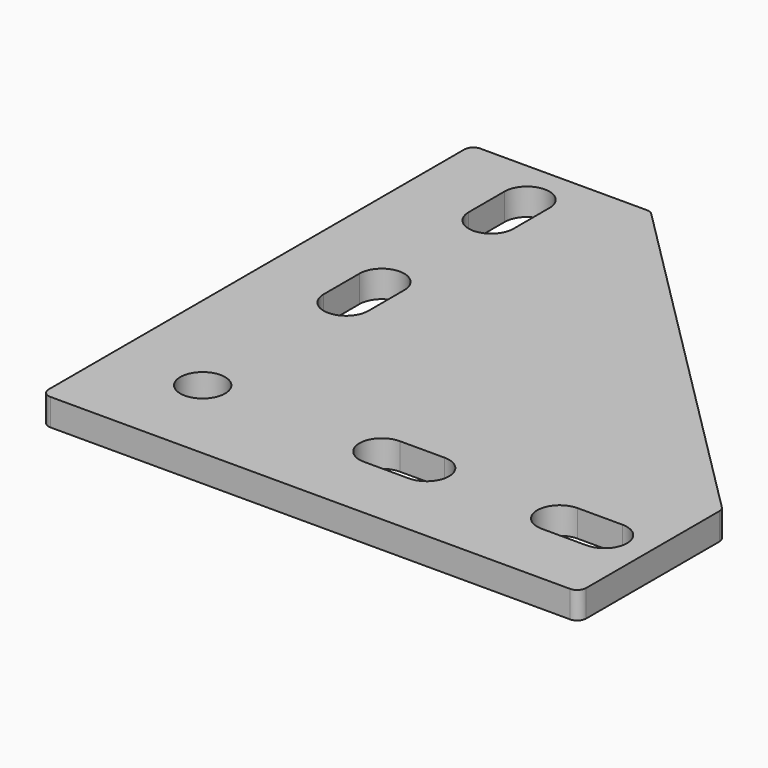
from build123d import *

# Parameters (mm, degrees)
F0_R     = 2.5
F1_DEPTH = 3


with BuildPart() as f1:
    # F0 (on Top) → F1 (new body)
    with BuildSketch(Plane.XY):
        with BuildLine():
            Line((0, 59), (0, 1))
            ThreePointArc((0, 1), (0.292893, 0.292893), (1, 0))
            Line((1, 0), (59, 0))
            ThreePointArc((59, 0), (59.707107, 0.292893), (60, 1))
            Line((60, 1), (60, 19.585786))
            ThreePointArc((60, 19.585786), (59.92388, 19.96847), (59.707107, 20.292893))
            Line((59.707107, 20.292893), (20.292893, 59.707107))
            ThreePointArc((20.292893, 59.707107), (19.96847, 59.92388), (19.585786, 60))
            Line((19.585786, 60), (1, 60))
            ThreePointArc((1, 60), (0.292893, 59.707107), (0, 59))
        make_face()
        with Locations((10, 10)):
            Circle(F0_R, mode=Mode.SUBTRACT)
        with BuildLine():
            ThreePointArc((30, 7.5), (27.5, 10), (30, 12.5))
            Line((30, 12.5), (35, 12.5))
            ThreePointArc((35, 12.5), (37.5, 10), (35, 7.5))
            Line((35, 7.5), (30, 7.5))
        make_face(mode=Mode.SUBTRACT)
        with BuildLine():
            ThreePointArc((50, 7.309189), (47.5, 9.809189), (50, 12.309189))
            Line((50, 12.309189), (55, 12.309189))
            ThreePointArc((55, 12.309189), (57.5, 9.809189), (55, 7.309189))
            Line((55, 7.309189), (50, 7.309189))
        make_face(mode=Mode.SUBTRACT)
        with BuildLine():
            ThreePointArc((12.5, 30), (10, 27.5), (7.5, 30))
            Line((7.5, 30), (7.5, 35))
            ThreePointArc((7.5, 35), (10, 37.5), (12.5, 35))
            Line((12.5, 35), (12.5, 30))
        make_face(mode=Mode.SUBTRACT)
        with BuildLine():
            ThreePointArc((12.690811, 50), (10.190811, 47.5), (7.690811, 50))
            Line((7.690811, 50), (7.690811, 55))
            ThreePointArc((7.690811, 55), (10.190811, 57.5), (12.690811, 55))
            Line((12.690811, 55), (12.690811, 50))
        make_face(mode=Mode.SUBTRACT)
    extrude(amount=F1_DEPTH)


solid = f1.part
